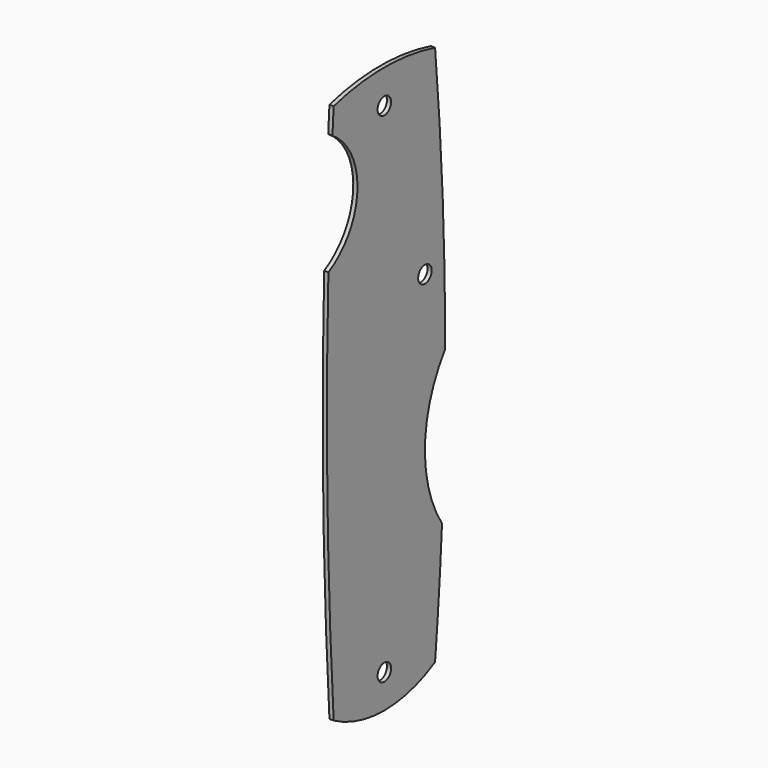
from build123d import *

# Parameters (mm, degrees)
F0_R     = 1.5875
F1_DEPTH = 0.79375


with BuildPart() as f1:
    # F0 (on Right) → F1 (new body)
    with BuildSketch(Plane.YZ):
        with BuildLine():
            ThreePointArc((-14.598681, -54.791494), (-2.692431, -57.966494), (9.213819, -54.791494))
            ThreePointArc((9.213819, -54.791494), (10.142302, -43.68735), (10.842757, -32.566494))
            ThreePointArc((10.842757, -32.566494), (6.835346, -18.163585), (11.595069, -3.991494))
            ThreePointArc((11.595069, -3.991494), (10.99943, 21.436396), (9.213819, 46.808506))
            ThreePointArc((9.213819, 46.808506), (-2.692431, 48.396006), (-14.598681, 46.808506))
            ThreePointArc((-14.598681, 46.808506), (-14.744138, 44.427464), (-14.882613, 42.046006))
            ThreePointArc((-14.882613, 42.046006), (-9.015448, 30.671057), (-15.83703, 19.841509))
            ThreePointArc((-15.83703, 19.841509), (-16.074209, -17.489202), (-14.598681, -54.791494))
        make_face()
        with Locations((-2.692431, -51.616494)):
            Circle(F0_R, mode=Mode.SUBTRACT)
        with Locations((-2.692431, 42.046006)):
            Circle(F0_R, mode=Mode.SUBTRACT)
        with Locations((6.832569, 10.296006)):
            Circle(F0_R, mode=Mode.SUBTRACT)
    extrude(amount=F1_DEPTH)


solid = f1.part
